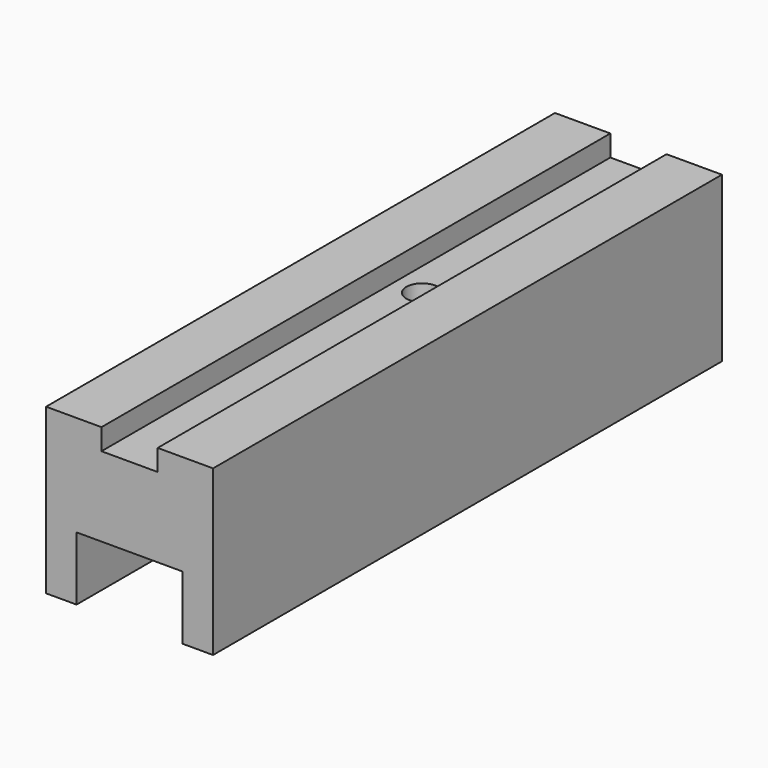
from build123d import *

# Parameters (mm, degrees)
F1_DEPTH = 30
F2_R     = 1.5
F3_DEPTH = 25


with BuildPart() as f1:
    # F0 (on Front) → F1 (new body, symmetric)
    with BuildSketch(Plane.XZ):
        Polygon((-7.875, -2.679542), (-7.875, -18.179542), (-5, -18.179542), (-5, -12.179542), (5, -12.179542), (5, -18.179542), (7.875, -18.179542), (7.875, -2.679542), (2.65, -2.679542), (2.65, -4.679542), (-2.65, -4.679542), (-2.65, -2.679542), align=None)
    extrude(amount=F1_DEPTH, both=True)

    # F2 (on face) → F3 (cut)
    with BuildSketch(Plane.XY.offset(-4.679542)):
        with Locations((0, 4.5)):
            Circle(F2_R)
    extrude(amount=-F3_DEPTH, mode=Mode.SUBTRACT)


solid = f1.part
